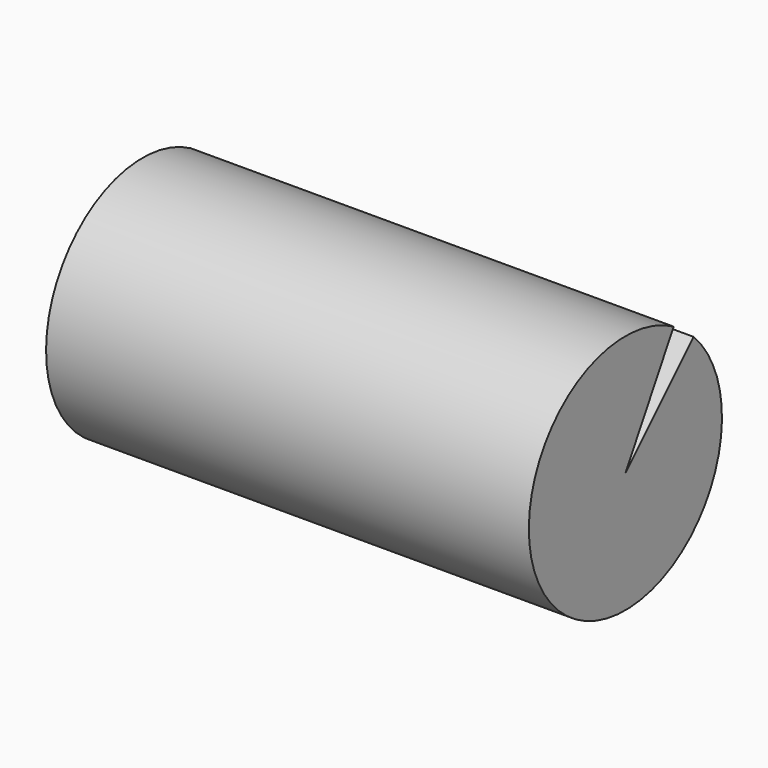
from build123d import *

# Parameters (mm, degrees)
F1_DEPTH      = 127
F1_DEPTH_BACK = 127


with BuildPart() as f1:
    # F0 (on Right) → F1 (new body, two sides)
    with BuildSketch(Plane.YZ) as f1_sk:
        with BuildLine():
            Line((0, 0), (31.75, 54.992613))
            ThreePointArc((31.75, 54.992613), (-38.656351, -50.377937), (44.901281, 44.901281))
            Line((44.901281, 44.901281), (0, 0))
        make_face()
    extrude(amount=F1_DEPTH)
    extrude(f1_sk.sketch, amount=-F1_DEPTH_BACK)


solid = f1.part
